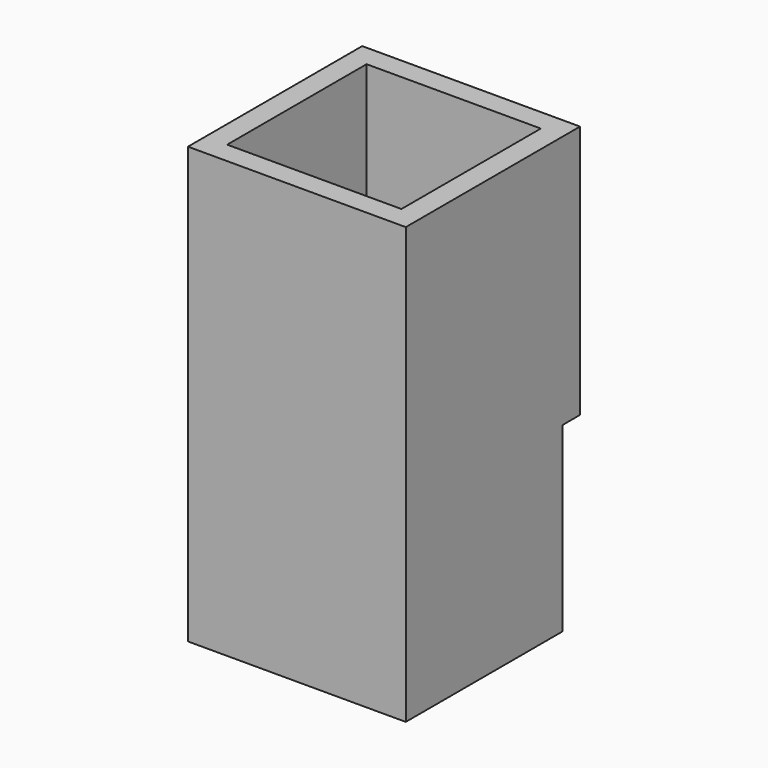
from build123d import *

# Parameters (mm, degrees)
F0_W     = 38.1
F0_H     = 38.1
F1_DEPTH = 76.2
F2_W     = 30.480002
F2_H     = 30.480002
F3_DEPTH = 88.9
F4_W     = 38.1
F4_H     = 31.786919
F5_DEPTH = 3.81


with BuildPart() as f1:
    # F0 (on Top) → F1 (new body)
    with BuildSketch(Plane.XY):
        with Locations((19.05, 19.05)):
            Rectangle(F0_W, F0_H)
        with Locations((19.05, 19.05)):
            Rectangle(F0_W, F0_H)
    extrude(amount=F1_DEPTH)

    # F2 (on face) → F3 (cut)
    with BuildSketch(Plane.XY.offset(76.2)):
        with Locations((19.05, 19.05)):
            Rectangle(F2_W, F2_H)
    extrude(amount=-F3_DEPTH, mode=Mode.SUBTRACT)

    # F4 (on face) → F5 (cut)
    with BuildSketch(Plane(origin=(0, 38.1, 0), x_dir=(-1, 0, 0), z_dir=(0, 1, 0))):
        with Locations((-19.05, 15.893459)):
            Rectangle(F4_W, F4_H)
    extrude(amount=-F5_DEPTH, mode=Mode.SUBTRACT)


solid = f1.part
